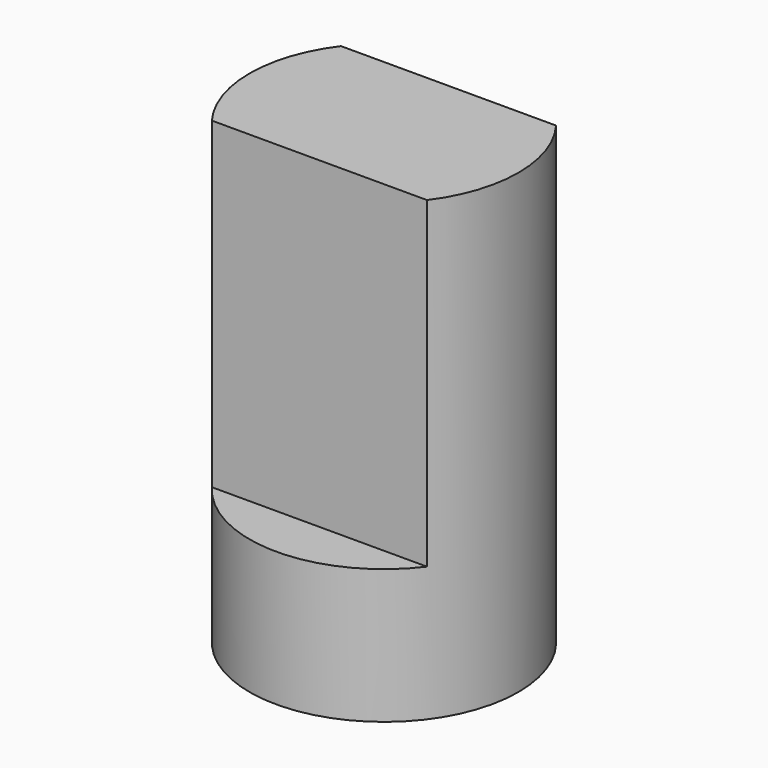
from build123d import *

# Parameters (mm, degrees)
BOX002_W          = 5
BOX002_H          = 3
BOX002_DEPTH      = 6
BOX001_W          = 5
BOX001_H          = 5
BOX001_DEPTH      = 4
CYLINDER002_R     = 2.5
CYLINDER002_DEPTH = 8.5


with BuildPart() as cube002:
    # Box002 → Box002 (new body)
    with BuildSketch(Plane(origin=(-2.5, -1.5, 23), x_dir=(1, 0, 0), z_dir=(0, 0, 1))):
        with Locations((2.5, 1.5)):
            Rectangle(BOX002_W, BOX002_H)
    extrude(amount=BOX002_DEPTH)


with BuildPart() as fusion:
    # Box001 → Box001 (new body)
    with BuildSketch(Plane(origin=(-2.5, -2.5, 19), x_dir=(1, 0, 0), z_dir=(0, 0, 1))):
        with Locations((2.5, 2.5)):
            Rectangle(BOX001_W, BOX001_H)
    extrude(amount=BOX001_DEPTH)

    # Fusion: union Cube002
    add(cube002.part)


with BuildPart() as common:
    # Cylinder002 → Cylinder002 (new body)
    with BuildSketch(Plane.XY.offset(20.5)):
        Circle(CYLINDER002_R)
    extrude(amount=CYLINDER002_DEPTH)

    # Common: intersect Fusion
    add(fusion.part, mode=Mode.INTERSECT)


with BuildPart() as common_1:
    # Common placement: moved
    add(common.part.moved(Location((0, 8, 0))))


solid = common_1.part
